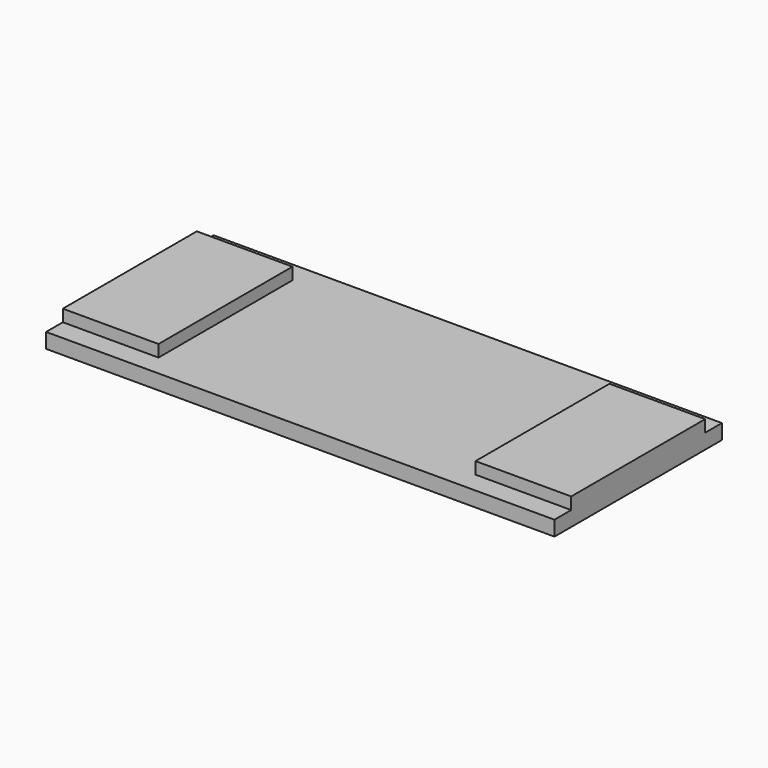
from build123d import *

# Parameters (mm, degrees)
BOX013_W     = 32
BOX013_H     = 56
BOX013_DEPTH = 4
BOX002_W     = 170
BOX002_H     = 70
BOX002_DEPTH = 5


with BuildPart() as soporte_motor:
    # Box013 → Box013 (new body)
    with BuildSketch(Plane(origin=(0, -28, 5), x_dir=(1, 0, 0), z_dir=(0, 0, 1))):
        with Locations((16, 28)):
            Rectangle(BOX013_W, BOX013_H)
    extrude(amount=BOX013_DEPTH)


with BuildPart() as obj1:
    # Box002 → Box002 (new body)
    with BuildSketch(Plane(origin=(0, -35, 0), x_dir=(1, 0, 0), z_dir=(0, 0, 1))):
        with Locations((85, 35)):
            Rectangle(BOX002_W, BOX002_H)
    extrude(amount=BOX002_DEPTH)


with BuildPart() as base:
    # Link011 base: copy of soporte motor
    add(soporte_motor.part)


with BuildPart() as base_1:
    # Link011 placement: moved
    add(base.part.moved(Location((138, 0, 0))))

    # Fusion008: union soporte motor, obj1
    add(soporte_motor.part)
    add(obj1.part)


solid = base_1.part
